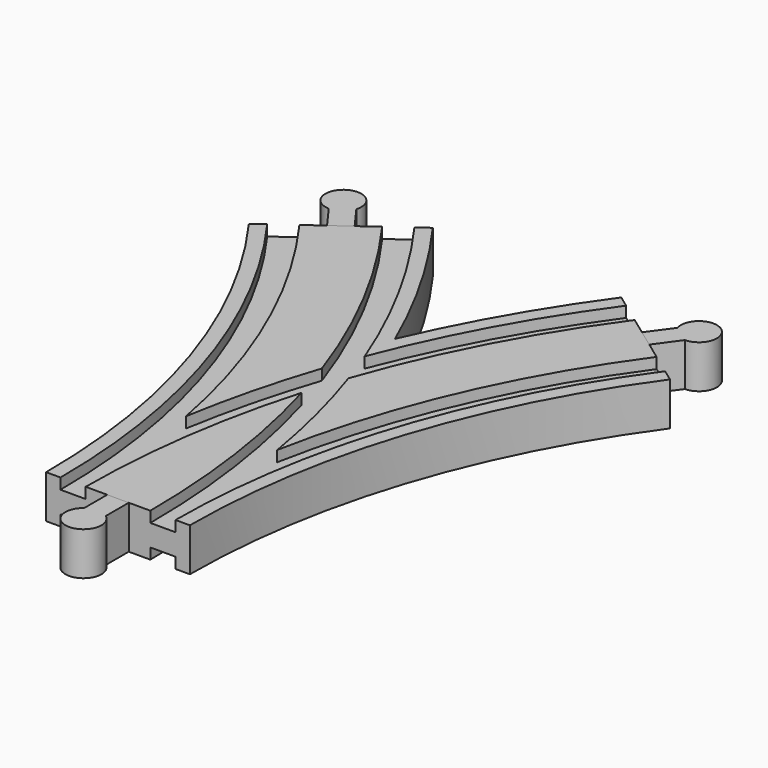
from build123d import *

# Parameters (mm, degrees)
SKETCH003_W  = 7
SKETCH003_H  = 3
SKETCH004_W  = 7
SKETCH004_H  = 3
SKETCH005_W  = 7
SKETCH005_H  = 3
SKETCH006_W  = 7
SKETCH006_H  = 3
PAD_DEPTH    = 6
PAD001_DEPTH = 6
PAD002_DEPTH = 6


with BuildPart() as main:
    # AdditivePipe: sweep along a path in Sketch
    with BuildLine(Plane.XY) as additivepipe_path:
        ThreePointArc((0, 0), (-10.865453, 68.601773), (-42.398227, 130.488326))
    # Sketch002 → AdditivePipe (sweep)
    with BuildSketch(Plane.XZ):
        Polygon((-20, 6), (-20, -6), (-16, -6), (-16, -3), (-9, -3), (-9, -6), (9, -6), (9, -3), (16, -3), (16, -6), (20, -6), (20, 6), (16, 6), (16, 3), (9, 3), (9, 6), (-9, 6), (-9, 3), (-16, 3), (-16, 6), align=None)
    sweep(path=additivepipe_path.line)

    # AdditivePipe001: sweep along a path in Sketch001
    with BuildLine(Plane.XY) as additivepipe001_path:
        ThreePointArc((42.398227, 130.488326), (10.865453, 68.601773), (0, 0))
    # Sketch002 → AdditivePipe001 (sweep)
    with BuildSketch(Plane.XZ):
        Polygon((-20, 6), (-20, -6), (-16, -6), (-16, -3), (-9, -3), (-9, -6), (9, -6), (9, -3), (16, -3), (16, -6), (20, -6), (20, 6), (16, 6), (16, 3), (9, 3), (9, 6), (-9, 6), (-9, 3), (-16, 3), (-16, 6), align=None)
    sweep(path=additivepipe001_path.line)

    # SubtractivePipe: sweep along a path in Sketch
    with BuildLine(Plane.XY) as subtractivepipe_path:
        ThreePointArc((0, 0), (-10.865453, 68.601773), (-42.398227, 130.488326))
    # Sketch003 → SubtractivePipe (sweep, cut)
    with BuildSketch(Plane.XZ):
        with Locations((-12.5, 4.5)):
            Rectangle(SKETCH003_W, SKETCH003_H)
    sweep(path=subtractivepipe_path.line, mode=Mode.SUBTRACT)

    # SubtractivePipe001: sweep along a path in Sketch001
    with BuildLine(Plane.XY) as subtractivepipe001_path:
        ThreePointArc((42.398227, 130.488326), (10.865453, 68.601773), (0, 0))
    # Sketch003 → SubtractivePipe001 (sweep, cut)
    with BuildSketch(Plane.XZ):
        with Locations((-12.5, 4.5)):
            Rectangle(SKETCH003_W, SKETCH003_H)
    sweep(path=subtractivepipe001_path.line, mode=Mode.SUBTRACT)

    # SubtractivePipe002: sweep along a path in Sketch
    with BuildLine(Plane.XY) as subtractivepipe002_path:
        ThreePointArc((0, 0), (-10.865453, 68.601773), (-42.398227, 130.488326))
    # Sketch004 → SubtractivePipe002 (sweep, cut)
    with BuildSketch(Plane.XZ):
        with Locations((12.5, 4.5)):
            Rectangle(SKETCH004_W, SKETCH004_H)
    sweep(path=subtractivepipe002_path.line, mode=Mode.SUBTRACT)

    # SubtractivePipe003: sweep along a path in Sketch001
    with BuildLine(Plane.XY) as subtractivepipe003_path:
        ThreePointArc((42.398227, 130.488326), (10.865453, 68.601773), (0, 0))
    # Sketch004 → SubtractivePipe003 (sweep, cut)
    with BuildSketch(Plane.XZ):
        with Locations((12.5, 4.5)):
            Rectangle(SKETCH004_W, SKETCH004_H)
    sweep(path=subtractivepipe003_path.line, mode=Mode.SUBTRACT)

    # SubtractivePipe004: sweep along a path in Sketch
    with BuildLine(Plane.XY) as subtractivepipe004_path:
        ThreePointArc((0, 0), (-10.865453, 68.601773), (-42.398227, 130.488326))
    # Sketch005 → SubtractivePipe004 (sweep, cut)
    with BuildSketch(Plane.XZ):
        with Locations((-12.5, -4.5)):
            Rectangle(SKETCH005_W, SKETCH005_H)
    sweep(path=subtractivepipe004_path.line, mode=Mode.SUBTRACT)

    # SubtractivePipe005: sweep along a path in Sketch001
    with BuildLine(Plane.XY) as subtractivepipe005_path:
        ThreePointArc((42.398227, 130.488326), (10.865453, 68.601773), (0, 0))
    # Sketch005 → SubtractivePipe005 (sweep, cut)
    with BuildSketch(Plane.XZ):
        with Locations((-12.5, -4.5)):
            Rectangle(SKETCH005_W, SKETCH005_H)
    sweep(path=subtractivepipe005_path.line, mode=Mode.SUBTRACT)

    # SubtractivePipe006: sweep along a path in Sketch
    with BuildLine(Plane.XY) as subtractivepipe006_path:
        ThreePointArc((0, 0), (-10.865453, 68.601773), (-42.398227, 130.488326))
    # Sketch006 → SubtractivePipe006 (sweep, cut)
    with BuildSketch(Plane.XZ):
        with Locations((12.5, -4.5)):
            Rectangle(SKETCH006_W, SKETCH006_H)
    sweep(path=subtractivepipe006_path.line, mode=Mode.SUBTRACT)

    # SubtractivePipe007: sweep along a path in Sketch001
    with BuildLine(Plane.XY) as subtractivepipe007_path:
        ThreePointArc((42.398227, 130.488326), (10.865453, 68.601773), (0, 0))
    # Sketch006 → SubtractivePipe007 (sweep, cut)
    with BuildSketch(Plane.XZ):
        with Locations((12.5, -4.5)):
            Rectangle(SKETCH006_W, SKETCH006_H)
    sweep(path=subtractivepipe007_path.line, mode=Mode.SUBTRACT)


with BuildPart() as male1:
    # Sketch010 → Pad (new body, symmetric)
    with BuildSketch(Plane.XY):
        with BuildLine():
            Line((-3, 0), (3, 0))
            Line((3, 0), (3, -8))
            ThreePointArc((-3, -8), (0, -17), (3, -8))
            Line((-3, 0), (-3, -8))
        make_face()
    extrude(amount=PAD_DEPTH, both=True)


with BuildPart() as male3:
    # Sketch011 → Pad001 (new body, symmetric)
    with BuildSketch(Plane.XY):
        with BuildLine():
            Line((39.971176, 132.251682), (44.825278, 128.72497))
            Line((44.825278, 128.72497), (49.52756, 135.197106))
            ThreePointArc((49.52756, 135.197106), (52.390577, 144.241615), (44.673458, 138.723818))
            Line((39.971176, 132.251682), (44.673458, 138.723818))
        make_face()
    extrude(amount=PAD001_DEPTH, both=True)


with BuildPart() as male2:
    # Sketch012 → Pad002 (new body, symmetric)
    with BuildSketch(Plane.XY):
        with BuildLine():
            Line((-44.825278, 128.72497), (-39.971176, 132.251682))
            Line((-39.971176, 132.251682), (-44.673458, 138.723818))
            ThreePointArc((-44.673458, 138.723818), (-52.390577, 144.241615), (-49.52756, 135.197106))
            Line((-44.825278, 128.72497), (-49.52756, 135.197106))
        make_face()
    extrude(amount=PAD002_DEPTH, both=True)


solid = Compound([main.part, male1.part, male3.part, male2.part])
